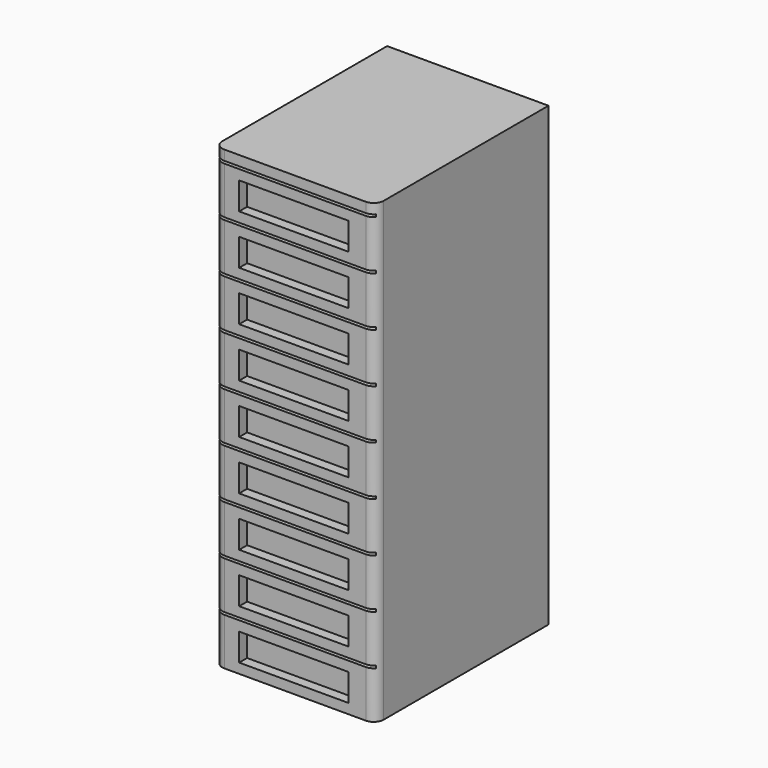
from build123d import *

# Parameters (mm, degrees)
PAD009_DEPTH        = 920
SKETCH017_W         = 220
SKETCH017_H         = 55
SKETCH017_W_2       = 320
SKETCH017_H_2       = 5
POCKET002_DEPTH     = 20
LINEARPATTERN_COUNT = 9
LINEARPATTERN_PITCH = 100


with BuildPart() as part:
    # Sketch016 → Pad009 (new body)
    with BuildSketch(Plane.XY):
        with BuildLine():
            Line((20, 0), (305, 0))
            ThreePointArc((305, 0), (319.142136, 5.857864), (325, 20))
            Line((325, 20), (325, 435))
            Line((325, 435), (0, 435))
            Line((0, 435), (0, 20))
            ThreePointArc((0, 20), (5.857864, 5.857864), (20, 0))
        make_face()
    extrude(amount=PAD009_DEPTH)

    # Sketch017 → Pocket002 (cut)
    with BuildSketch(Plane.XZ):
        with Locations((160, 47.5)):
            Rectangle(SKETCH017_W, SKETCH017_H)
        with Locations((160, 97.5)):
            Rectangle(SKETCH017_W_2, SKETCH017_H_2)
    pocket002 = extrude(amount=-POCKET002_DEPTH, mode=Mode.SUBTRACT)

    # LinearPattern: Pocket002 ×9
    with Locations(*[(0, 0, i * LINEARPATTERN_PITCH) for i in range(1, LINEARPATTERN_COUNT)]):
        add(pocket002, mode=Mode.SUBTRACT)


with BuildPart() as part_1:
    # Clone002 placement: moved
    add(part.part.moved(Location((-325, -217.5, 350))))


solid = part_1.part
